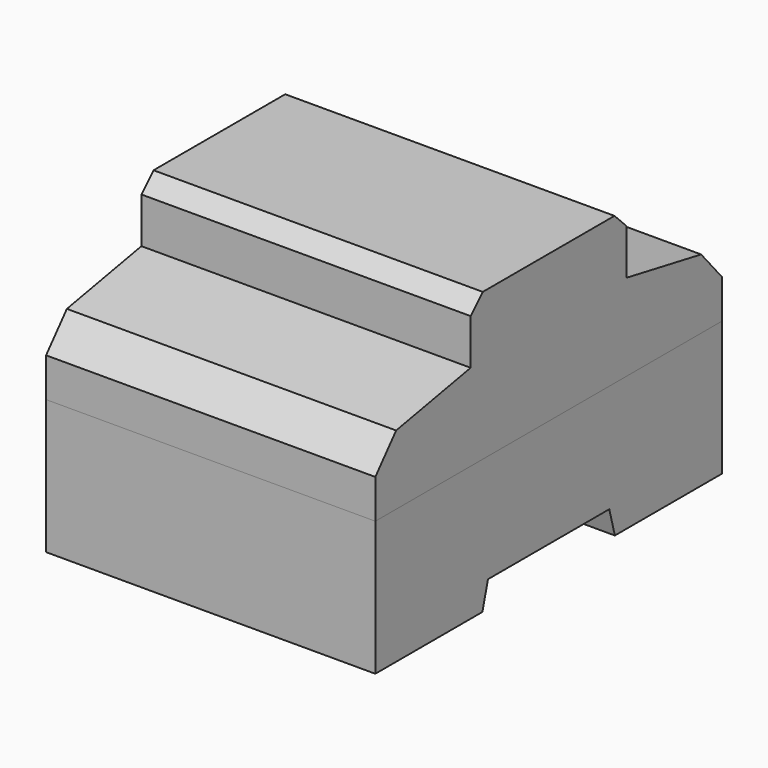
from build123d import *

# Parameters (mm, degrees)
F1_DEPTH      = 38
F1_DEPTH_BACK = 38
F3_DEPTH      = 38
F3_DEPTH_BACK = 38


with BuildPart() as f1:
    # F0 (on Right) → F1 (new body, two sides)
    with BuildSketch(Plane.YZ) as f1_sk:
        Polygon((-17.5, 0), (0, 0), (17.5, 0), (19.107695, -6), (50, -6), (50, 25), (0, 25), (-50, 25), (-50, -6), (-19.107695, -6), align=None)
    extrude(amount=F1_DEPTH)
    extrude(f1_sk.sketch, amount=-F1_DEPTH_BACK)


with BuildPart() as f3:
    # F2 (on Right) → F3 (new body, two sides)
    with BuildSketch(Plane.YZ) as f3_sk:
        Polygon((-50, 25), (50, 25), (50, 34), (44, 41), (22.5, 45), (22.5, 55.5), (19, 59), (0, 59), (-19, 59), (-22.5, 55.5), (-22.5, 45), (-44, 41), (-50, 34), align=None)
    extrude(amount=F3_DEPTH)
    extrude(f3_sk.sketch, amount=-F3_DEPTH_BACK)


solid = Compound([f1.part, f3.part])
